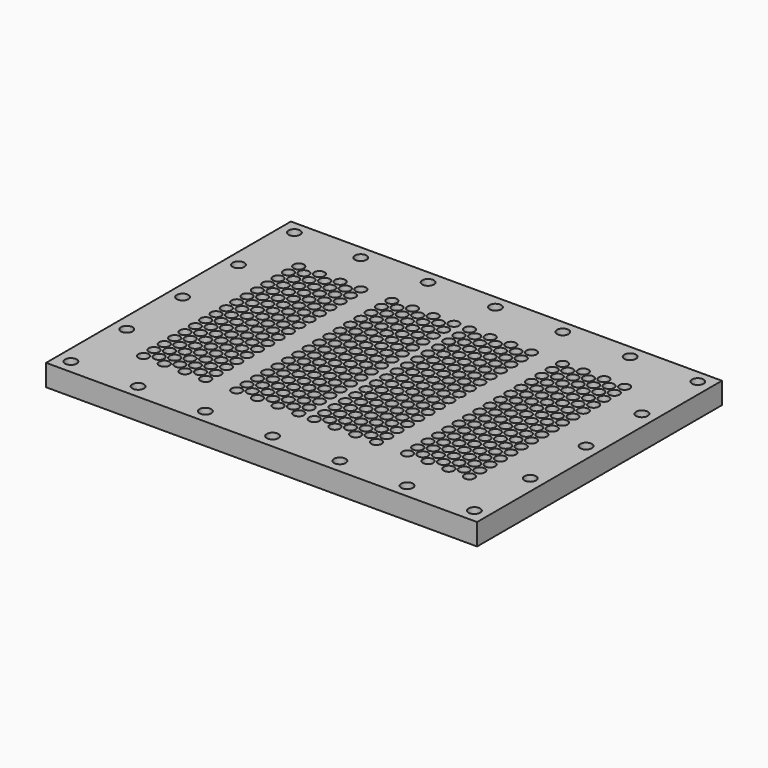
from build123d import *

# Parameters (mm, degrees)
F0_W     = 500
F0_H     = 355
F0_R     = 6.75
F0_R_2   = 6
F1_DEPTH = 25


with BuildPart() as f1:
    # F0 (on Top) → F1 (new body)
    with BuildSketch(Plane.XY):
        with Locations((250, 177.5)):
            Rectangle(F0_W, F0_H)
        with Locations((16, 16)):
            Circle(F0_R, mode=Mode.SUBTRACT)
        with Locations((94, 16)):
            Circle(F0_R, mode=Mode.SUBTRACT)
        with Locations((60.678148, 65.581607)):
            Circle(F0_R_2, mode=Mode.SUBTRACT)
        with Locations((60.6765, 80.580577)):
            Circle(F0_R_2, mode=Mode.SUBTRACT)
        with Locations((84.6765, 65.580577)):
            Circle(F0_R_2, mode=Mode.SUBTRACT)
        with Locations((108.6765, 65.580577)):
            Circle(F0_R_2, mode=Mode.SUBTRACT)
        with Locations((72.677324, 73.081092)):
            Circle(F0_R_2, mode=Mode.SUBTRACT)
        with Locations((72.677324, 88.081092)):
            Circle(F0_R_2, mode=Mode.SUBTRACT)
        with Locations((84.6765, 80.580577)):
            Circle(F0_R_2, mode=Mode.SUBTRACT)
        with Locations((96.677324, 73.081092)):
            Circle(F0_R_2, mode=Mode.SUBTRACT)
        with Locations((120.677324, 73.081092)):
            Circle(F0_R_2, mode=Mode.SUBTRACT)
        with Locations((108.6765, 80.580577)):
            Circle(F0_R_2, mode=Mode.SUBTRACT)
        with Locations((96.677324, 88.081092)):
            Circle(F0_R_2, mode=Mode.SUBTRACT)
        with Locations((120.677324, 88.081092)):
            Circle(F0_R_2, mode=Mode.SUBTRACT)
        with Locations((172, 16)):
            Circle(F0_R, mode=Mode.SUBTRACT)
        with Locations((132.6765, 65.580577)):
            Circle(F0_R_2, mode=Mode.SUBTRACT)
        with Locations((168.678148, 65.581607)):
            Circle(F0_R_2, mode=Mode.SUBTRACT)
        with Locations((132.6765, 80.580577)):
            Circle(F0_R_2, mode=Mode.SUBTRACT)
        with Locations((180.677324, 73.081092)):
            Circle(F0_R_2, mode=Mode.SUBTRACT)
        with Locations((168.6765, 80.580577)):
            Circle(F0_R_2, mode=Mode.SUBTRACT)
        with Locations((180.677324, 88.081092)):
            Circle(F0_R_2, mode=Mode.SUBTRACT)
        with Locations((192.6765, 65.580577)):
            Circle(F0_R_2, mode=Mode.SUBTRACT)
        with Locations((216.6765, 65.580577)):
            Circle(F0_R_2, mode=Mode.SUBTRACT)
        with Locations((240.6765, 65.580577)):
            Circle(F0_R_2, mode=Mode.SUBTRACT)
        with Locations((204.677324, 73.081092)):
            Circle(F0_R_2, mode=Mode.SUBTRACT)
        with Locations((192.6765, 80.580577)):
            Circle(F0_R_2, mode=Mode.SUBTRACT)
        with Locations((216.6765, 80.580577)):
            Circle(F0_R_2, mode=Mode.SUBTRACT)
        with Locations((204.677324, 88.081092)):
            Circle(F0_R_2, mode=Mode.SUBTRACT)
        with Locations((228.677324, 73.081092)):
            Circle(F0_R_2, mode=Mode.SUBTRACT)
        with Locations((228.677324, 88.081092)):
            Circle(F0_R_2, mode=Mode.SUBTRACT)
        with Locations((240.6765, 80.580577)):
            Circle(F0_R_2, mode=Mode.SUBTRACT)
        with Locations((16, 97)):
            Circle(F0_R, mode=Mode.SUBTRACT)
        with Locations((60.6765, 95.580577)):
            Circle(F0_R_2, mode=Mode.SUBTRACT)
        with Locations((60.6765, 110.580577)):
            Circle(F0_R_2, mode=Mode.SUBTRACT)
        with Locations((60.6765, 125.580577)):
            Circle(F0_R_2, mode=Mode.SUBTRACT)
        with Locations((84.6765, 95.580577)):
            Circle(F0_R_2, mode=Mode.SUBTRACT)
        with Locations((72.677324, 103.081092)):
            Circle(F0_R_2, mode=Mode.SUBTRACT)
        with Locations((84.6765, 110.580577)):
            Circle(F0_R_2, mode=Mode.SUBTRACT)
        with Locations((108.6765, 95.580577)):
            Circle(F0_R_2, mode=Mode.SUBTRACT)
        with Locations((96.677324, 103.081092)):
            Circle(F0_R_2, mode=Mode.SUBTRACT)
        with Locations((108.6765, 110.580577)):
            Circle(F0_R_2, mode=Mode.SUBTRACT)
        with Locations((120.677324, 103.081092)):
            Circle(F0_R_2, mode=Mode.SUBTRACT)
        with Locations((72.677324, 118.081092)):
            Circle(F0_R_2, mode=Mode.SUBTRACT)
        with Locations((72.677324, 133.081092)):
            Circle(F0_R_2, mode=Mode.SUBTRACT)
        with Locations((84.6765, 125.580577)):
            Circle(F0_R_2, mode=Mode.SUBTRACT)
        with Locations((96.677324, 118.081092)):
            Circle(F0_R_2, mode=Mode.SUBTRACT)
        with Locations((120.677324, 118.081092)):
            Circle(F0_R_2, mode=Mode.SUBTRACT)
        with Locations((108.6765, 125.580577)):
            Circle(F0_R_2, mode=Mode.SUBTRACT)
        with Locations((96.677324, 133.081092)):
            Circle(F0_R_2, mode=Mode.SUBTRACT)
        with Locations((120.677324, 133.081092)):
            Circle(F0_R_2, mode=Mode.SUBTRACT)
        with Locations((60.6765, 140.580577)):
            Circle(F0_R_2, mode=Mode.SUBTRACT)
        with Locations((60.6765, 155.580577)):
            Circle(F0_R_2, mode=Mode.SUBTRACT)
        with Locations((60.6765, 170.580577)):
            Circle(F0_R_2, mode=Mode.SUBTRACT)
        with Locations((84.6765, 140.580577)):
            Circle(F0_R_2, mode=Mode.SUBTRACT)
        with Locations((72.677324, 148.081092)):
            Circle(F0_R_2, mode=Mode.SUBTRACT)
        with Locations((108.6765, 140.580577)):
            Circle(F0_R_2, mode=Mode.SUBTRACT)
        with Locations((96.677324, 148.081092)):
            Circle(F0_R_2, mode=Mode.SUBTRACT)
        with Locations((120.677324, 148.081092)):
            Circle(F0_R_2, mode=Mode.SUBTRACT)
        with Locations((72.677324, 163.081092)):
            Circle(F0_R_2, mode=Mode.SUBTRACT)
        with Locations((84.6765, 155.580577)):
            Circle(F0_R_2, mode=Mode.SUBTRACT)
        with Locations((84.6765, 170.580577)):
            Circle(F0_R_2, mode=Mode.SUBTRACT)
        with Locations((108.6765, 155.580577)):
            Circle(F0_R_2, mode=Mode.SUBTRACT)
        with Locations((96.677324, 163.081092)):
            Circle(F0_R_2, mode=Mode.SUBTRACT)
        with Locations((120.677324, 163.081092)):
            Circle(F0_R_2, mode=Mode.SUBTRACT)
        with Locations((108.6765, 170.580577)):
            Circle(F0_R_2, mode=Mode.SUBTRACT)
        with Locations((132.6765, 95.580577)):
            Circle(F0_R_2, mode=Mode.SUBTRACT)
        with Locations((132.6765, 110.580577)):
            Circle(F0_R_2, mode=Mode.SUBTRACT)
        with Locations((168.6765, 95.580577)):
            Circle(F0_R_2, mode=Mode.SUBTRACT)
        with Locations((168.6765, 110.580577)):
            Circle(F0_R_2, mode=Mode.SUBTRACT)
        with Locations((180.677324, 103.081092)):
            Circle(F0_R_2, mode=Mode.SUBTRACT)
        with Locations((132.6765, 125.580577)):
            Circle(F0_R_2, mode=Mode.SUBTRACT)
        with Locations((180.677324, 118.081092)):
            Circle(F0_R_2, mode=Mode.SUBTRACT)
        with Locations((168.6765, 125.580577)):
            Circle(F0_R_2, mode=Mode.SUBTRACT)
        with Locations((180.677324, 133.081092)):
            Circle(F0_R_2, mode=Mode.SUBTRACT)
        with Locations((192.6765, 95.580577)):
            Circle(F0_R_2, mode=Mode.SUBTRACT)
        with Locations((216.6765, 95.580577)):
            Circle(F0_R_2, mode=Mode.SUBTRACT)
        with Locations((192.6765, 110.580577)):
            Circle(F0_R_2, mode=Mode.SUBTRACT)
        with Locations((204.677324, 103.081092)):
            Circle(F0_R_2, mode=Mode.SUBTRACT)
        with Locations((216.6765, 110.580577)):
            Circle(F0_R_2, mode=Mode.SUBTRACT)
        with Locations((240.6765, 95.580577)):
            Circle(F0_R_2, mode=Mode.SUBTRACT)
        with Locations((228.677324, 103.081092)):
            Circle(F0_R_2, mode=Mode.SUBTRACT)
        with Locations((240.6765, 110.580577)):
            Circle(F0_R_2, mode=Mode.SUBTRACT)
        with Locations((204.677324, 118.081092)):
            Circle(F0_R_2, mode=Mode.SUBTRACT)
        with Locations((192.6765, 125.580577)):
            Circle(F0_R_2, mode=Mode.SUBTRACT)
        with Locations((216.6765, 125.580577)):
            Circle(F0_R_2, mode=Mode.SUBTRACT)
        with Locations((204.677324, 133.081092)):
            Circle(F0_R_2, mode=Mode.SUBTRACT)
        with Locations((228.677324, 118.081092)):
            Circle(F0_R_2, mode=Mode.SUBTRACT)
        with Locations((228.677324, 133.081092)):
            Circle(F0_R_2, mode=Mode.SUBTRACT)
        with Locations((240.6765, 125.580577)):
            Circle(F0_R_2, mode=Mode.SUBTRACT)
        with Locations((132.6765, 140.580577)):
            Circle(F0_R_2, mode=Mode.SUBTRACT)
        with Locations((168.6765, 140.580577)):
            Circle(F0_R_2, mode=Mode.SUBTRACT)
        with Locations((180.677324, 148.081092)):
            Circle(F0_R_2, mode=Mode.SUBTRACT)
        with Locations((132.6765, 155.580577)):
            Circle(F0_R_2, mode=Mode.SUBTRACT)
        with Locations((132.6765, 170.580577)):
            Circle(F0_R_2, mode=Mode.SUBTRACT)
        with Locations((168.6765, 155.580577)):
            Circle(F0_R_2, mode=Mode.SUBTRACT)
        with Locations((180.677324, 163.081092)):
            Circle(F0_R_2, mode=Mode.SUBTRACT)
        with Locations((168.6765, 170.580577)):
            Circle(F0_R_2, mode=Mode.SUBTRACT)
        with Locations((192.6765, 140.580577)):
            Circle(F0_R_2, mode=Mode.SUBTRACT)
        with Locations((216.6765, 140.580577)):
            Circle(F0_R_2, mode=Mode.SUBTRACT)
        with Locations((204.677324, 148.081092)):
            Circle(F0_R_2, mode=Mode.SUBTRACT)
        with Locations((240.6765, 140.580577)):
            Circle(F0_R_2, mode=Mode.SUBTRACT)
        with Locations((228.677324, 148.081092)):
            Circle(F0_R_2, mode=Mode.SUBTRACT)
        with Locations((192.6765, 155.580577)):
            Circle(F0_R_2, mode=Mode.SUBTRACT)
        with Locations((216.6765, 155.580577)):
            Circle(F0_R_2, mode=Mode.SUBTRACT)
        with Locations((204.677324, 163.081092)):
            Circle(F0_R_2, mode=Mode.SUBTRACT)
        with Locations((192.6765, 170.580577)):
            Circle(F0_R_2, mode=Mode.SUBTRACT)
        with Locations((216.6765, 170.580577)):
            Circle(F0_R_2, mode=Mode.SUBTRACT)
        with Locations((228.677324, 163.081092)):
            Circle(F0_R_2, mode=Mode.SUBTRACT)
        with Locations((240.6765, 155.580577)):
            Circle(F0_R_2, mode=Mode.SUBTRACT)
        with Locations((240.6765, 170.580577)):
            Circle(F0_R_2, mode=Mode.SUBTRACT)
        with Locations((250, 16)):
            Circle(F0_R, mode=Mode.SUBTRACT)
        with Locations((328, 16)):
            Circle(F0_R, mode=Mode.SUBTRACT)
        with Locations((258.6765, 65.580577)):
            Circle(F0_R_2, mode=Mode.SUBTRACT)
        with Locations((282.6765, 65.580577)):
            Circle(F0_R_2, mode=Mode.SUBTRACT)
        with Locations((306.6765, 65.580577)):
            Circle(F0_R_2, mode=Mode.SUBTRACT)
        with Locations((270.675676, 73.081092)):
            Circle(F0_R_2, mode=Mode.SUBTRACT)
        with Locations((258.6765, 80.580577)):
            Circle(F0_R_2, mode=Mode.SUBTRACT)
        with Locations((270.675676, 88.081092)):
            Circle(F0_R_2, mode=Mode.SUBTRACT)
        with Locations((294.675676, 73.081092)):
            Circle(F0_R_2, mode=Mode.SUBTRACT)
        with Locations((282.6765, 80.580577)):
            Circle(F0_R_2, mode=Mode.SUBTRACT)
        with Locations((294.675676, 88.081092)):
            Circle(F0_R_2, mode=Mode.SUBTRACT)
        with Locations((306.6765, 80.580577)):
            Circle(F0_R_2, mode=Mode.SUBTRACT)
        with Locations((330.674852, 65.581607)):
            Circle(F0_R_2, mode=Mode.SUBTRACT)
        with Locations((366.6765, 65.580577)):
            Circle(F0_R_2, mode=Mode.SUBTRACT)
        with Locations((318.675676, 73.081092)):
            Circle(F0_R_2, mode=Mode.SUBTRACT)
        with Locations((318.675676, 88.081092)):
            Circle(F0_R_2, mode=Mode.SUBTRACT)
        with Locations((330.6765, 80.580577)):
            Circle(F0_R_2, mode=Mode.SUBTRACT)
        with Locations((366.6765, 80.580577)):
            Circle(F0_R_2, mode=Mode.SUBTRACT)
        with Locations((406, 16)):
            Circle(F0_R, mode=Mode.SUBTRACT)
        with Locations((484, 16)):
            Circle(F0_R, mode=Mode.SUBTRACT)
        with Locations((390.6765, 65.580577)):
            Circle(F0_R_2, mode=Mode.SUBTRACT)
        with Locations((414.6765, 65.580577)):
            Circle(F0_R_2, mode=Mode.SUBTRACT)
        with Locations((378.675676, 73.081092)):
            Circle(F0_R_2, mode=Mode.SUBTRACT)
        with Locations((402.675676, 73.081092)):
            Circle(F0_R_2, mode=Mode.SUBTRACT)
        with Locations((378.675676, 88.081092)):
            Circle(F0_R_2, mode=Mode.SUBTRACT)
        with Locations((390.6765, 80.580577)):
            Circle(F0_R_2, mode=Mode.SUBTRACT)
        with Locations((402.675676, 88.081092)):
            Circle(F0_R_2, mode=Mode.SUBTRACT)
        with Locations((426.675676, 73.081092)):
            Circle(F0_R_2, mode=Mode.SUBTRACT)
        with Locations((414.6765, 80.580577)):
            Circle(F0_R_2, mode=Mode.SUBTRACT)
        with Locations((426.675676, 88.081092)):
            Circle(F0_R_2, mode=Mode.SUBTRACT)
        with Locations((438.674852, 65.581607)):
            Circle(F0_R_2, mode=Mode.SUBTRACT)
        with Locations((438.6765, 80.580577)):
            Circle(F0_R_2, mode=Mode.SUBTRACT)
        with Locations((258.6765, 95.580577)):
            Circle(F0_R_2, mode=Mode.SUBTRACT)
        with Locations((258.6765, 110.580577)):
            Circle(F0_R_2, mode=Mode.SUBTRACT)
        with Locations((270.675676, 103.081092)):
            Circle(F0_R_2, mode=Mode.SUBTRACT)
        with Locations((282.6765, 95.580577)):
            Circle(F0_R_2, mode=Mode.SUBTRACT)
        with Locations((306.6765, 95.580577)):
            Circle(F0_R_2, mode=Mode.SUBTRACT)
        with Locations((294.675676, 103.081092)):
            Circle(F0_R_2, mode=Mode.SUBTRACT)
        with Locations((282.6765, 110.580577)):
            Circle(F0_R_2, mode=Mode.SUBTRACT)
        with Locations((306.6765, 110.580577)):
            Circle(F0_R_2, mode=Mode.SUBTRACT)
        with Locations((270.675676, 118.081092)):
            Circle(F0_R_2, mode=Mode.SUBTRACT)
        with Locations((258.6765, 125.580577)):
            Circle(F0_R_2, mode=Mode.SUBTRACT)
        with Locations((270.675676, 133.081092)):
            Circle(F0_R_2, mode=Mode.SUBTRACT)
        with Locations((294.675676, 118.081092)):
            Circle(F0_R_2, mode=Mode.SUBTRACT)
        with Locations((282.6765, 125.580577)):
            Circle(F0_R_2, mode=Mode.SUBTRACT)
        with Locations((294.675676, 133.081092)):
            Circle(F0_R_2, mode=Mode.SUBTRACT)
        with Locations((306.6765, 125.580577)):
            Circle(F0_R_2, mode=Mode.SUBTRACT)
        with Locations((330.6765, 95.580577)):
            Circle(F0_R_2, mode=Mode.SUBTRACT)
        with Locations((318.675676, 103.081092)):
            Circle(F0_R_2, mode=Mode.SUBTRACT)
        with Locations((330.6765, 110.580577)):
            Circle(F0_R_2, mode=Mode.SUBTRACT)
        with Locations((366.6765, 95.580577)):
            Circle(F0_R_2, mode=Mode.SUBTRACT)
        with Locations((366.6765, 110.580577)):
            Circle(F0_R_2, mode=Mode.SUBTRACT)
        with Locations((318.675676, 118.081092)):
            Circle(F0_R_2, mode=Mode.SUBTRACT)
        with Locations((318.675676, 133.081092)):
            Circle(F0_R_2, mode=Mode.SUBTRACT)
        with Locations((330.6765, 125.580577)):
            Circle(F0_R_2, mode=Mode.SUBTRACT)
        with Locations((366.6765, 125.580577)):
            Circle(F0_R_2, mode=Mode.SUBTRACT)
        with Locations((258.6765, 140.580577)):
            Circle(F0_R_2, mode=Mode.SUBTRACT)
        with Locations((270.675676, 148.081092)):
            Circle(F0_R_2, mode=Mode.SUBTRACT)
        with Locations((282.6765, 140.580577)):
            Circle(F0_R_2, mode=Mode.SUBTRACT)
        with Locations((306.6765, 140.580577)):
            Circle(F0_R_2, mode=Mode.SUBTRACT)
        with Locations((294.675676, 148.081092)):
            Circle(F0_R_2, mode=Mode.SUBTRACT)
        with Locations((258.6765, 155.580577)):
            Circle(F0_R_2, mode=Mode.SUBTRACT)
        with Locations((270.675676, 163.081092)):
            Circle(F0_R_2, mode=Mode.SUBTRACT)
        with Locations((258.6765, 170.580577)):
            Circle(F0_R_2, mode=Mode.SUBTRACT)
        with Locations((282.6765, 155.580577)):
            Circle(F0_R_2, mode=Mode.SUBTRACT)
        with Locations((294.675676, 163.081092)):
            Circle(F0_R_2, mode=Mode.SUBTRACT)
        with Locations((306.6765, 155.580577)):
            Circle(F0_R_2, mode=Mode.SUBTRACT)
        with Locations((282.6765, 170.580577)):
            Circle(F0_R_2, mode=Mode.SUBTRACT)
        with Locations((306.6765, 170.580577)):
            Circle(F0_R_2, mode=Mode.SUBTRACT)
        with Locations((330.6765, 140.580577)):
            Circle(F0_R_2, mode=Mode.SUBTRACT)
        with Locations((318.675676, 148.081092)):
            Circle(F0_R_2, mode=Mode.SUBTRACT)
        with Locations((366.6765, 140.580577)):
            Circle(F0_R_2, mode=Mode.SUBTRACT)
        with Locations((318.675676, 163.081092)):
            Circle(F0_R_2, mode=Mode.SUBTRACT)
        with Locations((330.6765, 155.580577)):
            Circle(F0_R_2, mode=Mode.SUBTRACT)
        with Locations((330.6765, 170.580577)):
            Circle(F0_R_2, mode=Mode.SUBTRACT)
        with Locations((366.6765, 155.580577)):
            Circle(F0_R_2, mode=Mode.SUBTRACT)
        with Locations((366.6765, 170.580577)):
            Circle(F0_R_2, mode=Mode.SUBTRACT)
        with Locations((390.6765, 95.580577)):
            Circle(F0_R_2, mode=Mode.SUBTRACT)
        with Locations((378.675676, 103.081092)):
            Circle(F0_R_2, mode=Mode.SUBTRACT)
        with Locations((402.675676, 103.081092)):
            Circle(F0_R_2, mode=Mode.SUBTRACT)
        with Locations((390.6765, 110.580577)):
            Circle(F0_R_2, mode=Mode.SUBTRACT)
        with Locations((414.6765, 95.580577)):
            Circle(F0_R_2, mode=Mode.SUBTRACT)
        with Locations((414.6765, 110.580577)):
            Circle(F0_R_2, mode=Mode.SUBTRACT)
        with Locations((426.675676, 103.081092)):
            Circle(F0_R_2, mode=Mode.SUBTRACT)
        with Locations((378.675676, 118.081092)):
            Circle(F0_R_2, mode=Mode.SUBTRACT)
        with Locations((402.675676, 118.081092)):
            Circle(F0_R_2, mode=Mode.SUBTRACT)
        with Locations((378.675676, 133.081092)):
            Circle(F0_R_2, mode=Mode.SUBTRACT)
        with Locations((390.6765, 125.580577)):
            Circle(F0_R_2, mode=Mode.SUBTRACT)
        with Locations((402.675676, 133.081092)):
            Circle(F0_R_2, mode=Mode.SUBTRACT)
        with Locations((426.675676, 118.081092)):
            Circle(F0_R_2, mode=Mode.SUBTRACT)
        with Locations((414.6765, 125.580577)):
            Circle(F0_R_2, mode=Mode.SUBTRACT)
        with Locations((426.675676, 133.081092)):
            Circle(F0_R_2, mode=Mode.SUBTRACT)
        with Locations((438.6765, 95.580577)):
            Circle(F0_R_2, mode=Mode.SUBTRACT)
        with Locations((438.6765, 110.580577)):
            Circle(F0_R_2, mode=Mode.SUBTRACT)
        with Locations((484, 97)):
            Circle(F0_R, mode=Mode.SUBTRACT)
        with Locations((438.6765, 125.580577)):
            Circle(F0_R_2, mode=Mode.SUBTRACT)
        with Locations((390.6765, 140.580577)):
            Circle(F0_R_2, mode=Mode.SUBTRACT)
        with Locations((378.675676, 148.081092)):
            Circle(F0_R_2, mode=Mode.SUBTRACT)
        with Locations((402.675676, 148.081092)):
            Circle(F0_R_2, mode=Mode.SUBTRACT)
        with Locations((414.6765, 140.580577)):
            Circle(F0_R_2, mode=Mode.SUBTRACT)
        with Locations((426.675676, 148.081092)):
            Circle(F0_R_2, mode=Mode.SUBTRACT)
        with Locations((378.675676, 163.081092)):
            Circle(F0_R_2, mode=Mode.SUBTRACT)
        with Locations((390.6765, 155.580577)):
            Circle(F0_R_2, mode=Mode.SUBTRACT)
        with Locations((402.675676, 163.081092)):
            Circle(F0_R_2, mode=Mode.SUBTRACT)
        with Locations((390.6765, 170.580577)):
            Circle(F0_R_2, mode=Mode.SUBTRACT)
        with Locations((414.6765, 155.580577)):
            Circle(F0_R_2, mode=Mode.SUBTRACT)
        with Locations((426.675676, 163.081092)):
            Circle(F0_R_2, mode=Mode.SUBTRACT)
        with Locations((414.6765, 170.580577)):
            Circle(F0_R_2, mode=Mode.SUBTRACT)
        with Locations((438.6765, 140.580577)):
            Circle(F0_R_2, mode=Mode.SUBTRACT)
        with Locations((438.6765, 155.580577)):
            Circle(F0_R_2, mode=Mode.SUBTRACT)
        with Locations((438.6765, 170.580577)):
            Circle(F0_R_2, mode=Mode.SUBTRACT)
        with Locations((16, 178)):
            Circle(F0_R, mode=Mode.SUBTRACT)
        with Locations((60.6765, 185.580577)):
            Circle(F0_R_2, mode=Mode.SUBTRACT)
        with Locations((60.6765, 200.580577)):
            Circle(F0_R_2, mode=Mode.SUBTRACT)
        with Locations((60.6765, 215.580577)):
            Circle(F0_R_2, mode=Mode.SUBTRACT)
        with Locations((72.677324, 178.081092)):
            Circle(F0_R_2, mode=Mode.SUBTRACT)
        with Locations((84.6765, 185.580577)):
            Circle(F0_R_2, mode=Mode.SUBTRACT)
        with Locations((72.677324, 193.081092)):
            Circle(F0_R_2, mode=Mode.SUBTRACT)
        with Locations((96.677324, 178.081092)):
            Circle(F0_R_2, mode=Mode.SUBTRACT)
        with Locations((108.6765, 185.580577)):
            Circle(F0_R_2, mode=Mode.SUBTRACT)
        with Locations((120.677324, 178.081092)):
            Circle(F0_R_2, mode=Mode.SUBTRACT)
        with Locations((96.677324, 193.081092)):
            Circle(F0_R_2, mode=Mode.SUBTRACT)
        with Locations((120.677324, 193.081092)):
            Circle(F0_R_2, mode=Mode.SUBTRACT)
        with Locations((72.677324, 208.081092)):
            Circle(F0_R_2, mode=Mode.SUBTRACT)
        with Locations((84.6765, 200.580577)):
            Circle(F0_R_2, mode=Mode.SUBTRACT)
        with Locations((84.6765, 215.580577)):
            Circle(F0_R_2, mode=Mode.SUBTRACT)
        with Locations((108.6765, 200.580577)):
            Circle(F0_R_2, mode=Mode.SUBTRACT)
        with Locations((96.677324, 208.081092)):
            Circle(F0_R_2, mode=Mode.SUBTRACT)
        with Locations((120.677324, 208.081092)):
            Circle(F0_R_2, mode=Mode.SUBTRACT)
        with Locations((108.6765, 215.580577)):
            Circle(F0_R_2, mode=Mode.SUBTRACT)
        with Locations((60.6765, 230.580577)):
            Circle(F0_R_2, mode=Mode.SUBTRACT)
        with Locations((16, 259)):
            Circle(F0_R, mode=Mode.SUBTRACT)
        with Locations((60.6765, 245.580577)):
            Circle(F0_R_2, mode=Mode.SUBTRACT)
        with Locations((60.6765, 260.580577)):
            Circle(F0_R_2, mode=Mode.SUBTRACT)
        with Locations((72.677324, 223.081092)):
            Circle(F0_R_2, mode=Mode.SUBTRACT)
        with Locations((84.6765, 230.580577)):
            Circle(F0_R_2, mode=Mode.SUBTRACT)
        with Locations((72.677324, 238.081092)):
            Circle(F0_R_2, mode=Mode.SUBTRACT)
        with Locations((96.677324, 223.081092)):
            Circle(F0_R_2, mode=Mode.SUBTRACT)
        with Locations((108.6765, 230.580577)):
            Circle(F0_R_2, mode=Mode.SUBTRACT)
        with Locations((120.677324, 223.081092)):
            Circle(F0_R_2, mode=Mode.SUBTRACT)
        with Locations((96.677324, 238.081092)):
            Circle(F0_R_2, mode=Mode.SUBTRACT)
        with Locations((120.677324, 238.081092)):
            Circle(F0_R_2, mode=Mode.SUBTRACT)
        with Locations((72.677324, 253.081092)):
            Circle(F0_R_2, mode=Mode.SUBTRACT)
        with Locations((84.6765, 245.580577)):
            Circle(F0_R_2, mode=Mode.SUBTRACT)
        with Locations((84.6765, 260.580577)):
            Circle(F0_R_2, mode=Mode.SUBTRACT)
        with Locations((108.6765, 245.580577)):
            Circle(F0_R_2, mode=Mode.SUBTRACT)
        with Locations((96.677324, 253.081092)):
            Circle(F0_R_2, mode=Mode.SUBTRACT)
        with Locations((120.677324, 253.081092)):
            Circle(F0_R_2, mode=Mode.SUBTRACT)
        with Locations((108.6765, 260.580577)):
            Circle(F0_R_2, mode=Mode.SUBTRACT)
        with Locations((132.6765, 185.580577)):
            Circle(F0_R_2, mode=Mode.SUBTRACT)
        with Locations((168.6765, 185.580577)):
            Circle(F0_R_2, mode=Mode.SUBTRACT)
        with Locations((180.677324, 178.081092)):
            Circle(F0_R_2, mode=Mode.SUBTRACT)
        with Locations((180.677324, 193.081092)):
            Circle(F0_R_2, mode=Mode.SUBTRACT)
        with Locations((132.6765, 200.580577)):
            Circle(F0_R_2, mode=Mode.SUBTRACT)
        with Locations((132.6765, 215.580577)):
            Circle(F0_R_2, mode=Mode.SUBTRACT)
        with Locations((168.6765, 200.580577)):
            Circle(F0_R_2, mode=Mode.SUBTRACT)
        with Locations((180.677324, 208.081092)):
            Circle(F0_R_2, mode=Mode.SUBTRACT)
        with Locations((168.6765, 215.580577)):
            Circle(F0_R_2, mode=Mode.SUBTRACT)
        with Locations((192.6765, 185.580577)):
            Circle(F0_R_2, mode=Mode.SUBTRACT)
        with Locations((204.677324, 178.081092)):
            Circle(F0_R_2, mode=Mode.SUBTRACT)
        with Locations((216.6765, 185.580577)):
            Circle(F0_R_2, mode=Mode.SUBTRACT)
        with Locations((204.677324, 193.081092)):
            Circle(F0_R_2, mode=Mode.SUBTRACT)
        with Locations((228.677324, 178.081092)):
            Circle(F0_R_2, mode=Mode.SUBTRACT)
        with Locations((240.6765, 185.580577)):
            Circle(F0_R_2, mode=Mode.SUBTRACT)
        with Locations((228.677324, 193.081092)):
            Circle(F0_R_2, mode=Mode.SUBTRACT)
        with Locations((192.6765, 200.580577)):
            Circle(F0_R_2, mode=Mode.SUBTRACT)
        with Locations((216.6765, 200.580577)):
            Circle(F0_R_2, mode=Mode.SUBTRACT)
        with Locations((204.677324, 208.081092)):
            Circle(F0_R_2, mode=Mode.SUBTRACT)
        with Locations((192.6765, 215.580577)):
            Circle(F0_R_2, mode=Mode.SUBTRACT)
        with Locations((216.6765, 215.580577)):
            Circle(F0_R_2, mode=Mode.SUBTRACT)
        with Locations((228.677324, 208.081092)):
            Circle(F0_R_2, mode=Mode.SUBTRACT)
        with Locations((240.6765, 200.580577)):
            Circle(F0_R_2, mode=Mode.SUBTRACT)
        with Locations((240.6765, 215.580577)):
            Circle(F0_R_2, mode=Mode.SUBTRACT)
        with Locations((132.6765, 230.580577)):
            Circle(F0_R_2, mode=Mode.SUBTRACT)
        with Locations((168.6765, 230.580577)):
            Circle(F0_R_2, mode=Mode.SUBTRACT)
        with Locations((180.677324, 223.081092)):
            Circle(F0_R_2, mode=Mode.SUBTRACT)
        with Locations((180.677324, 238.081092)):
            Circle(F0_R_2, mode=Mode.SUBTRACT)
        with Locations((132.6765, 245.580577)):
            Circle(F0_R_2, mode=Mode.SUBTRACT)
        with Locations((132.6765, 260.580577)):
            Circle(F0_R_2, mode=Mode.SUBTRACT)
        with Locations((168.6765, 245.580577)):
            Circle(F0_R_2, mode=Mode.SUBTRACT)
        with Locations((180.677324, 253.081092)):
            Circle(F0_R_2, mode=Mode.SUBTRACT)
        with Locations((168.6765, 260.580577)):
            Circle(F0_R_2, mode=Mode.SUBTRACT)
        with Locations((192.6765, 230.580577)):
            Circle(F0_R_2, mode=Mode.SUBTRACT)
        with Locations((204.677324, 223.081092)):
            Circle(F0_R_2, mode=Mode.SUBTRACT)
        with Locations((216.6765, 230.580577)):
            Circle(F0_R_2, mode=Mode.SUBTRACT)
        with Locations((204.677324, 238.081092)):
            Circle(F0_R_2, mode=Mode.SUBTRACT)
        with Locations((228.677324, 223.081092)):
            Circle(F0_R_2, mode=Mode.SUBTRACT)
        with Locations((240.6765, 230.580577)):
            Circle(F0_R_2, mode=Mode.SUBTRACT)
        with Locations((228.677324, 238.081092)):
            Circle(F0_R_2, mode=Mode.SUBTRACT)
        with Locations((192.6765, 245.580577)):
            Circle(F0_R_2, mode=Mode.SUBTRACT)
        with Locations((216.6765, 245.580577)):
            Circle(F0_R_2, mode=Mode.SUBTRACT)
        with Locations((204.677324, 253.081092)):
            Circle(F0_R_2, mode=Mode.SUBTRACT)
        with Locations((192.6765, 260.580577)):
            Circle(F0_R_2, mode=Mode.SUBTRACT)
        with Locations((216.6765, 260.580577)):
            Circle(F0_R_2, mode=Mode.SUBTRACT)
        with Locations((228.677324, 253.081092)):
            Circle(F0_R_2, mode=Mode.SUBTRACT)
        with Locations((240.6765, 245.580577)):
            Circle(F0_R_2, mode=Mode.SUBTRACT)
        with Locations((240.6765, 260.580577)):
            Circle(F0_R_2, mode=Mode.SUBTRACT)
        with Locations((60.6765, 275.580577)):
            Circle(F0_R_2, mode=Mode.SUBTRACT)
        with Locations((60.6765, 290.580577)):
            Circle(F0_R_2, mode=Mode.SUBTRACT)
        with Locations((72.677324, 268.081092)):
            Circle(F0_R_2, mode=Mode.SUBTRACT)
        with Locations((84.6765, 275.580577)):
            Circle(F0_R_2, mode=Mode.SUBTRACT)
        with Locations((72.677324, 283.081092)):
            Circle(F0_R_2, mode=Mode.SUBTRACT)
        with Locations((96.677324, 268.081092)):
            Circle(F0_R_2, mode=Mode.SUBTRACT)
        with Locations((108.6765, 275.580577)):
            Circle(F0_R_2, mode=Mode.SUBTRACT)
        with Locations((120.677324, 268.081092)):
            Circle(F0_R_2, mode=Mode.SUBTRACT)
        with Locations((96.677324, 283.081092)):
            Circle(F0_R_2, mode=Mode.SUBTRACT)
        with Locations((120.677324, 283.081092)):
            Circle(F0_R_2, mode=Mode.SUBTRACT)
        with Locations((84.6765, 290.580577)):
            Circle(F0_R_2, mode=Mode.SUBTRACT)
        with Locations((108.6765, 290.580577)):
            Circle(F0_R_2, mode=Mode.SUBTRACT)
        with Locations((16, 340)):
            Circle(F0_R, mode=Mode.SUBTRACT)
        with Locations((93.676812, 339.187677)):
            Circle(F0_R, mode=Mode.SUBTRACT)
        with Locations((132.6765, 275.580577)):
            Circle(F0_R_2, mode=Mode.SUBTRACT)
        with Locations((168.6765, 275.580577)):
            Circle(F0_R_2, mode=Mode.SUBTRACT)
        with Locations((180.677324, 268.081092)):
            Circle(F0_R_2, mode=Mode.SUBTRACT)
        with Locations((180.677324, 283.081092)):
            Circle(F0_R_2, mode=Mode.SUBTRACT)
        with Locations((132.6765, 290.580577)):
            Circle(F0_R_2, mode=Mode.SUBTRACT)
        with Locations((168.6765, 290.580577)):
            Circle(F0_R_2, mode=Mode.SUBTRACT)
        with Locations((192.6765, 275.580577)):
            Circle(F0_R_2, mode=Mode.SUBTRACT)
        with Locations((204.677324, 268.081092)):
            Circle(F0_R_2, mode=Mode.SUBTRACT)
        with Locations((216.6765, 275.580577)):
            Circle(F0_R_2, mode=Mode.SUBTRACT)
        with Locations((204.677324, 283.081092)):
            Circle(F0_R_2, mode=Mode.SUBTRACT)
        with Locations((228.677324, 268.081092)):
            Circle(F0_R_2, mode=Mode.SUBTRACT)
        with Locations((240.6765, 275.580577)):
            Circle(F0_R_2, mode=Mode.SUBTRACT)
        with Locations((228.677324, 283.081092)):
            Circle(F0_R_2, mode=Mode.SUBTRACT)
        with Locations((192.6765, 290.580577)):
            Circle(F0_R_2, mode=Mode.SUBTRACT)
        with Locations((216.6765, 290.580577)):
            Circle(F0_R_2, mode=Mode.SUBTRACT)
        with Locations((240.6765, 290.580577)):
            Circle(F0_R_2, mode=Mode.SUBTRACT)
        with Locations((171.676656, 339.343677)):
            Circle(F0_R, mode=Mode.SUBTRACT)
        with Locations((249.6765, 339.499677)):
            Circle(F0_R, mode=Mode.SUBTRACT)
        with Locations((258.6765, 185.580577)):
            Circle(F0_R_2, mode=Mode.SUBTRACT)
        with Locations((270.675676, 178.081092)):
            Circle(F0_R_2, mode=Mode.SUBTRACT)
        with Locations((270.675676, 193.081092)):
            Circle(F0_R_2, mode=Mode.SUBTRACT)
        with Locations((294.675676, 178.081092)):
            Circle(F0_R_2, mode=Mode.SUBTRACT)
        with Locations((282.6765, 185.580577)):
            Circle(F0_R_2, mode=Mode.SUBTRACT)
        with Locations((306.6765, 185.580577)):
            Circle(F0_R_2, mode=Mode.SUBTRACT)
        with Locations((294.675676, 193.081092)):
            Circle(F0_R_2, mode=Mode.SUBTRACT)
        with Locations((258.6765, 200.580577)):
            Circle(F0_R_2, mode=Mode.SUBTRACT)
        with Locations((270.675676, 208.081092)):
            Circle(F0_R_2, mode=Mode.SUBTRACT)
        with Locations((258.6765, 215.580577)):
            Circle(F0_R_2, mode=Mode.SUBTRACT)
        with Locations((282.6765, 200.580577)):
            Circle(F0_R_2, mode=Mode.SUBTRACT)
        with Locations((294.675676, 208.081092)):
            Circle(F0_R_2, mode=Mode.SUBTRACT)
        with Locations((306.6765, 200.580577)):
            Circle(F0_R_2, mode=Mode.SUBTRACT)
        with Locations((282.6765, 215.580577)):
            Circle(F0_R_2, mode=Mode.SUBTRACT)
        with Locations((306.6765, 215.580577)):
            Circle(F0_R_2, mode=Mode.SUBTRACT)
        with Locations((318.675676, 178.081092)):
            Circle(F0_R_2, mode=Mode.SUBTRACT)
        with Locations((330.6765, 185.580577)):
            Circle(F0_R_2, mode=Mode.SUBTRACT)
        with Locations((318.675676, 193.081092)):
            Circle(F0_R_2, mode=Mode.SUBTRACT)
        with Locations((366.6765, 185.580577)):
            Circle(F0_R_2, mode=Mode.SUBTRACT)
        with Locations((318.675676, 208.081092)):
            Circle(F0_R_2, mode=Mode.SUBTRACT)
        with Locations((330.6765, 200.580577)):
            Circle(F0_R_2, mode=Mode.SUBTRACT)
        with Locations((330.6765, 215.580577)):
            Circle(F0_R_2, mode=Mode.SUBTRACT)
        with Locations((366.6765, 200.580577)):
            Circle(F0_R_2, mode=Mode.SUBTRACT)
        with Locations((366.6765, 215.580577)):
            Circle(F0_R_2, mode=Mode.SUBTRACT)
        with Locations((258.6765, 230.580577)):
            Circle(F0_R_2, mode=Mode.SUBTRACT)
        with Locations((270.675676, 223.081092)):
            Circle(F0_R_2, mode=Mode.SUBTRACT)
        with Locations((270.675676, 238.081092)):
            Circle(F0_R_2, mode=Mode.SUBTRACT)
        with Locations((294.675676, 223.081092)):
            Circle(F0_R_2, mode=Mode.SUBTRACT)
        with Locations((282.6765, 230.580577)):
            Circle(F0_R_2, mode=Mode.SUBTRACT)
        with Locations((306.6765, 230.580577)):
            Circle(F0_R_2, mode=Mode.SUBTRACT)
        with Locations((294.675676, 238.081092)):
            Circle(F0_R_2, mode=Mode.SUBTRACT)
        with Locations((258.6765, 245.580577)):
            Circle(F0_R_2, mode=Mode.SUBTRACT)
        with Locations((270.675676, 253.081092)):
            Circle(F0_R_2, mode=Mode.SUBTRACT)
        with Locations((258.6765, 260.580577)):
            Circle(F0_R_2, mode=Mode.SUBTRACT)
        with Locations((282.6765, 245.580577)):
            Circle(F0_R_2, mode=Mode.SUBTRACT)
        with Locations((294.675676, 253.081092)):
            Circle(F0_R_2, mode=Mode.SUBTRACT)
        with Locations((306.6765, 245.580577)):
            Circle(F0_R_2, mode=Mode.SUBTRACT)
        with Locations((282.6765, 260.580577)):
            Circle(F0_R_2, mode=Mode.SUBTRACT)
        with Locations((306.6765, 260.580577)):
            Circle(F0_R_2, mode=Mode.SUBTRACT)
        with Locations((318.675676, 223.081092)):
            Circle(F0_R_2, mode=Mode.SUBTRACT)
        with Locations((330.6765, 230.580577)):
            Circle(F0_R_2, mode=Mode.SUBTRACT)
        with Locations((318.675676, 238.081092)):
            Circle(F0_R_2, mode=Mode.SUBTRACT)
        with Locations((366.6765, 230.580577)):
            Circle(F0_R_2, mode=Mode.SUBTRACT)
        with Locations((318.675676, 253.081092)):
            Circle(F0_R_2, mode=Mode.SUBTRACT)
        with Locations((330.6765, 245.580577)):
            Circle(F0_R_2, mode=Mode.SUBTRACT)
        with Locations((330.6765, 260.580577)):
            Circle(F0_R_2, mode=Mode.SUBTRACT)
        with Locations((366.6765, 245.580577)):
            Circle(F0_R_2, mode=Mode.SUBTRACT)
        with Locations((366.6765, 260.580577)):
            Circle(F0_R_2, mode=Mode.SUBTRACT)
        with Locations((378.675676, 178.081092)):
            Circle(F0_R_2, mode=Mode.SUBTRACT)
        with Locations((402.675676, 178.081092)):
            Circle(F0_R_2, mode=Mode.SUBTRACT)
        with Locations((390.6765, 185.580577)):
            Circle(F0_R_2, mode=Mode.SUBTRACT)
        with Locations((378.675676, 193.081092)):
            Circle(F0_R_2, mode=Mode.SUBTRACT)
        with Locations((402.675676, 193.081092)):
            Circle(F0_R_2, mode=Mode.SUBTRACT)
        with Locations((414.6765, 185.580577)):
            Circle(F0_R_2, mode=Mode.SUBTRACT)
        with Locations((426.675676, 178.081092)):
            Circle(F0_R_2, mode=Mode.SUBTRACT)
        with Locations((426.675676, 193.081092)):
            Circle(F0_R_2, mode=Mode.SUBTRACT)
        with Locations((378.675676, 208.081092)):
            Circle(F0_R_2, mode=Mode.SUBTRACT)
        with Locations((390.6765, 200.580577)):
            Circle(F0_R_2, mode=Mode.SUBTRACT)
        with Locations((402.675676, 208.081092)):
            Circle(F0_R_2, mode=Mode.SUBTRACT)
        with Locations((390.6765, 215.580577)):
            Circle(F0_R_2, mode=Mode.SUBTRACT)
        with Locations((414.6765, 200.580577)):
            Circle(F0_R_2, mode=Mode.SUBTRACT)
        with Locations((426.675676, 208.081092)):
            Circle(F0_R_2, mode=Mode.SUBTRACT)
        with Locations((414.6765, 215.580577)):
            Circle(F0_R_2, mode=Mode.SUBTRACT)
        with Locations((438.6765, 185.580577)):
            Circle(F0_R_2, mode=Mode.SUBTRACT)
        with Locations((484, 178)):
            Circle(F0_R, mode=Mode.SUBTRACT)
        with Locations((438.6765, 200.580577)):
            Circle(F0_R_2, mode=Mode.SUBTRACT)
        with Locations((438.6765, 215.580577)):
            Circle(F0_R_2, mode=Mode.SUBTRACT)
        with Locations((378.675676, 223.081092)):
            Circle(F0_R_2, mode=Mode.SUBTRACT)
        with Locations((402.675676, 223.081092)):
            Circle(F0_R_2, mode=Mode.SUBTRACT)
        with Locations((390.6765, 230.580577)):
            Circle(F0_R_2, mode=Mode.SUBTRACT)
        with Locations((378.675676, 238.081092)):
            Circle(F0_R_2, mode=Mode.SUBTRACT)
        with Locations((402.675676, 238.081092)):
            Circle(F0_R_2, mode=Mode.SUBTRACT)
        with Locations((414.6765, 230.580577)):
            Circle(F0_R_2, mode=Mode.SUBTRACT)
        with Locations((426.675676, 223.081092)):
            Circle(F0_R_2, mode=Mode.SUBTRACT)
        with Locations((426.675676, 238.081092)):
            Circle(F0_R_2, mode=Mode.SUBTRACT)
        with Locations((378.675676, 253.081092)):
            Circle(F0_R_2, mode=Mode.SUBTRACT)
        with Locations((390.6765, 245.580577)):
            Circle(F0_R_2, mode=Mode.SUBTRACT)
        with Locations((402.675676, 253.081092)):
            Circle(F0_R_2, mode=Mode.SUBTRACT)
        with Locations((390.6765, 260.580577)):
            Circle(F0_R_2, mode=Mode.SUBTRACT)
        with Locations((414.6765, 245.580577)):
            Circle(F0_R_2, mode=Mode.SUBTRACT)
        with Locations((426.675676, 253.081092)):
            Circle(F0_R_2, mode=Mode.SUBTRACT)
        with Locations((414.6765, 260.580577)):
            Circle(F0_R_2, mode=Mode.SUBTRACT)
        with Locations((438.6765, 230.580577)):
            Circle(F0_R_2, mode=Mode.SUBTRACT)
        with Locations((438.6765, 245.580577)):
            Circle(F0_R_2, mode=Mode.SUBTRACT)
        with Locations((438.6765, 260.580577)):
            Circle(F0_R_2, mode=Mode.SUBTRACT)
        with Locations((484, 259)):
            Circle(F0_R, mode=Mode.SUBTRACT)
        with Locations((258.6765, 275.580577)):
            Circle(F0_R_2, mode=Mode.SUBTRACT)
        with Locations((270.675676, 268.081092)):
            Circle(F0_R_2, mode=Mode.SUBTRACT)
        with Locations((270.675676, 283.081092)):
            Circle(F0_R_2, mode=Mode.SUBTRACT)
        with Locations((294.675676, 268.081092)):
            Circle(F0_R_2, mode=Mode.SUBTRACT)
        with Locations((282.6765, 275.580577)):
            Circle(F0_R_2, mode=Mode.SUBTRACT)
        with Locations((306.6765, 275.580577)):
            Circle(F0_R_2, mode=Mode.SUBTRACT)
        with Locations((294.675676, 283.081092)):
            Circle(F0_R_2, mode=Mode.SUBTRACT)
        with Locations((258.6765, 290.580577)):
            Circle(F0_R_2, mode=Mode.SUBTRACT)
        with Locations((282.6765, 290.580577)):
            Circle(F0_R_2, mode=Mode.SUBTRACT)
        with Locations((306.6765, 290.580577)):
            Circle(F0_R_2, mode=Mode.SUBTRACT)
        with Locations((318.675676, 268.081092)):
            Circle(F0_R_2, mode=Mode.SUBTRACT)
        with Locations((330.6765, 275.580577)):
            Circle(F0_R_2, mode=Mode.SUBTRACT)
        with Locations((318.675676, 283.081092)):
            Circle(F0_R_2, mode=Mode.SUBTRACT)
        with Locations((366.6765, 275.580577)):
            Circle(F0_R_2, mode=Mode.SUBTRACT)
        with Locations((330.6765, 290.580577)):
            Circle(F0_R_2, mode=Mode.SUBTRACT)
        with Locations((366.6765, 290.580577)):
            Circle(F0_R_2, mode=Mode.SUBTRACT)
        with Locations((327.676344, 339.655676)):
            Circle(F0_R, mode=Mode.SUBTRACT)
        with Locations((378.675676, 268.081092)):
            Circle(F0_R_2, mode=Mode.SUBTRACT)
        with Locations((402.675676, 268.081092)):
            Circle(F0_R_2, mode=Mode.SUBTRACT)
        with Locations((390.6765, 275.580577)):
            Circle(F0_R_2, mode=Mode.SUBTRACT)
        with Locations((378.675676, 283.081092)):
            Circle(F0_R_2, mode=Mode.SUBTRACT)
        with Locations((402.675676, 283.081092)):
            Circle(F0_R_2, mode=Mode.SUBTRACT)
        with Locations((414.6765, 275.580577)):
            Circle(F0_R_2, mode=Mode.SUBTRACT)
        with Locations((426.675676, 268.081092)):
            Circle(F0_R_2, mode=Mode.SUBTRACT)
        with Locations((426.675676, 283.081092)):
            Circle(F0_R_2, mode=Mode.SUBTRACT)
        with Locations((390.6765, 290.580577)):
            Circle(F0_R_2, mode=Mode.SUBTRACT)
        with Locations((414.6765, 290.580577)):
            Circle(F0_R_2, mode=Mode.SUBTRACT)
        with Locations((438.6765, 275.580577)):
            Circle(F0_R_2, mode=Mode.SUBTRACT)
        with Locations((438.6765, 290.580577)):
            Circle(F0_R_2, mode=Mode.SUBTRACT)
        with Locations((405.676188, 339.811676)):
            Circle(F0_R, mode=Mode.SUBTRACT)
        with Locations((484, 340)):
            Circle(F0_R, mode=Mode.SUBTRACT)
    extrude(amount=F1_DEPTH)


solid = f1.part
